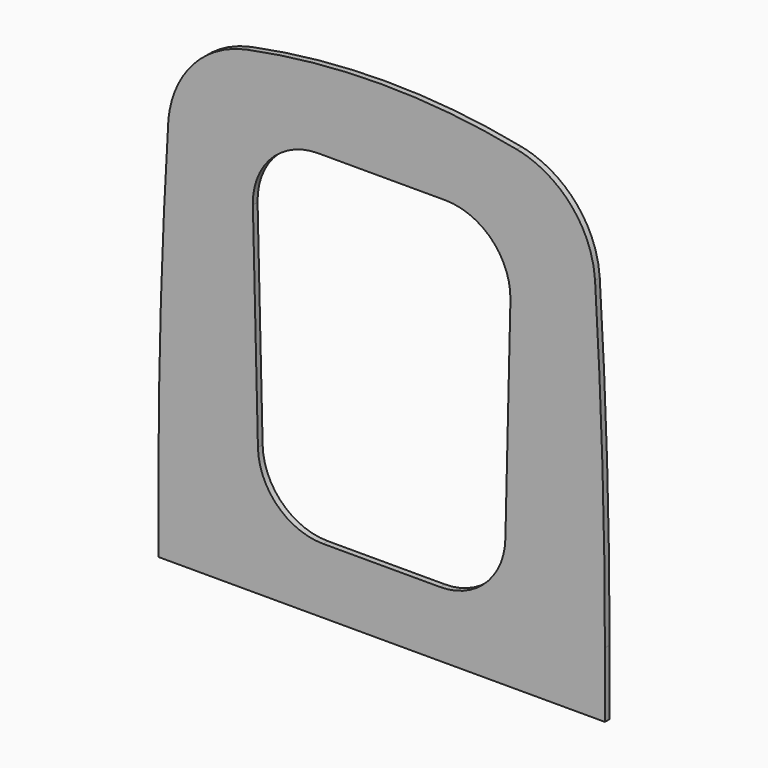
from build123d import *

# Parameters (mm, degrees)
F1_DEPTH = 18
F2_R     = 300
F4_DEPTH = 25
F5_R     = 200


with BuildPart() as f1:
    # F0 (on Front) → F1 (new body)
    with BuildSketch(Plane.XZ):
        with BuildLine():
            Line((-685, 200), (-685, 0))
            Line((-685, 0), (685, 0))
            Line((685, 0), (685, 200))
            ThreePointArc((685, 200), (673.746048, 800.421727), (640, 1400))
            ThreePointArc((640, 1400), (0, 1500), (-640, 1400))
            ThreePointArc((-640, 1400), (-673.746048, 800.421727), (-685, 200))
        make_face()
    extrude(amount=F1_DEPTH)

    # F2
    f2_edges = [f1.edges().sort_by_distance(p)[0] for p in [
        (-640, -9, 1400),
        (640, -9, 1400),
    ]]
    fillet(f2_edges, radius=F2_R)

    # F3 (on face) → F4 (cut)
    with BuildSketch(Plane.XZ.offset(18)):
        Polygon((400, 1250), (-400, 1250), (-375, 200), (375, 200), align=None)
    extrude(amount=-F4_DEPTH, mode=Mode.SUBTRACT)

    # F5
    f5_edges = [f1.edges().sort_by_distance(p)[0] for p in [
        (400, -9, 1250),
        (-400, -9, 1250),
        (-375, -9, 200),
        (375, -9, 200),
    ]]
    fillet(f5_edges, radius=F5_R)


solid = f1.part
